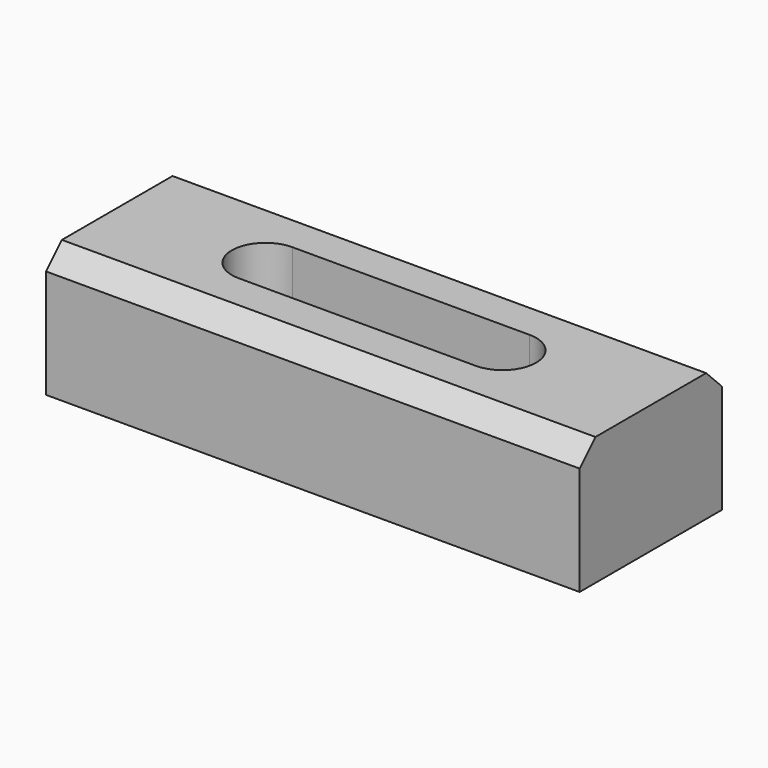
from build123d import *

# Parameters (mm, degrees)
SKETCH_W     = 27
SKETCH_H     = 9
PAD_DEPTH    = 6.5
CHAMFER_SIZE = 1


with BuildPart() as part:
    # Sketch → Pad (new body)
    with BuildSketch(Plane.XY):
        Rectangle(SKETCH_W, SKETCH_H)
        with BuildLine():
            ThreePointArc((-6, 1.7), (-7.7, 0), (-6, -1.7))
            Line((-6, -1.7), (6, -1.7))
            ThreePointArc((6, -1.7), (7.7, 0), (6, 1.7))
            Line((-6, 1.7), (6, 1.7))
        make_face(mode=Mode.SUBTRACT)
    extrude(amount=PAD_DEPTH)

    # Chamfer
    chamfer_edges = [part.edges().sort_by_distance(p)[0] for p in [
        (0, -4.5, 6.5),
        (0, 4.5, 6.5),
    ]]
    chamfer(chamfer_edges, length=CHAMFER_SIZE)


solid = part.part
